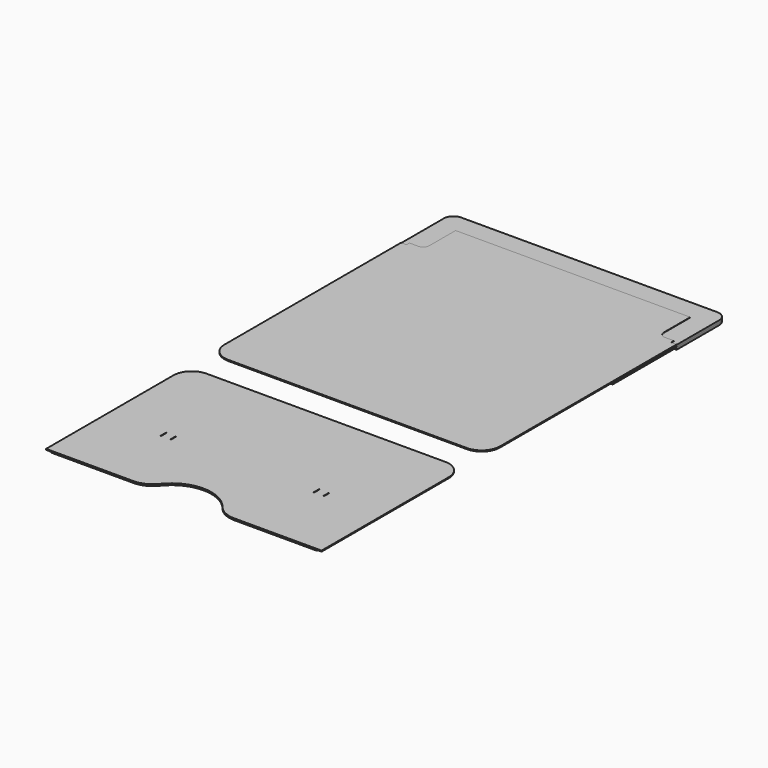
from build123d import *

# Parameters (mm, degrees)
F0_W      = 0.5
F0_H      = 5.5
F1_DEPTH  = 0.8
F2_DEPTH  = 0.9
F3_DEPTH  = 0.9
F4_DEPTH  = 0.6
F6_DEPTH  = 0.6
F8_DEPTH  = 0.9
F9_R      = 2.5
F10_DEPTH = 0.6
F12_DEPTH = 0.6


with BuildPart() as f1:
    # F0 (on Top) → F1 (new body)
    with BuildSketch(Plane.XY):
        with BuildLine():
            Line((-112.5, -206.965), (-41.231056, -206.965))
            ThreePointArc((-41.231056, -206.965), (-32.502341, -204.959708), (-25.523987, -199.345952))
            ThreePointArc((-25.523987, -199.345952), (0, -186.965), (25.523987, -199.345952))
            ThreePointArc((25.523987, -199.345952), (32.502341, -204.959708), (41.231056, -206.965))
            Line((41.231056, -206.965), (112.5, -206.965))
            Line((112.5, -206.965), (112.5, -76.965))
            ThreePointArc((112.5, -76.965), (108.106602, -66.358398), (97.5, -61.965))
            Line((97.5, -61.965), (-97.5, -61.965))
            ThreePointArc((-97.5, -61.965), (-108.106602, -66.358398), (-112.5, -76.965))
            Line((-112.5, -76.965), (-112.5, -206.965))
        make_face()
        with Locations((-66.5, -144.465)):
            Rectangle(F0_W, F0_H, mode=Mode.SUBTRACT)
        with Locations((-58.5, -144.465)):
            Rectangle(F0_W, F0_H, mode=Mode.SUBTRACT)
        with Locations((58.5, -144.465)):
            Rectangle(F0_W, F0_H, mode=Mode.SUBTRACT)
        with Locations((66.5, -144.465)):
            Rectangle(F0_W, F0_H, mode=Mode.SUBTRACT)
    extrude(amount=-F1_DEPTH)


with BuildPart() as f2:
    # F0 (on Top) → F2 (new body)
    with BuildSketch(Plane.XY):
        with BuildLine():
            Line((112.5, 105.235), (112.5, 155.395))
            Line((112.5, 155.395), (108, 155.395))
            Line((108, 155.395), (100.80026, 155.395))
            ThreePointArc((100.80026, 155.395), (95.143406, 157.738146), (92.80026, 163.395))
            Line((92.80026, 163.395), (92.80026, 187.26526))
            Line((92.80026, 187.26526), (-92.80026, 187.26526))
            Line((-92.80026, 187.26526), (-92.80026, 163.395))
            ThreePointArc((-92.80026, 163.395), (-95.143406, 157.738146), (-100.80026, 155.395))
            Line((-100.80026, 155.395), (-108, 155.395))
            Line((-108, 155.395), (-112.5, 155.395))
            Line((-112.5, 155.395), (-112.5, 105.235))
            Line((-112.5, 105.235), (-112.5, -24.765))
            ThreePointArc((-112.5, -24.765), (-108.106602, -35.371602), (-97.5, -39.765))
            Line((-97.5, -39.765), (97.5, -39.765))
            ThreePointArc((97.5, -39.765), (108.106602, -35.371602), (112.5, -24.765))
            Line((112.5, -24.765), (112.5, 105.235))
        make_face()
        with BuildLine():
            Line((100.80026, 155.395), (108, 155.395))
            Line((108, 155.395), (108, 158.395))
            Line((108, 158.395), (100.80026, 158.395))
            ThreePointArc((100.80026, 158.395), (97.264726, 159.859466), (95.80026, 163.395))
            Line((95.80026, 163.395), (95.80026, 190.26526))
            Line((95.80026, 190.26526), (-95.80026, 190.26526))
            Line((-95.80026, 190.26526), (-95.80026, 163.395))
            ThreePointArc((-95.80026, 163.395), (-97.264726, 159.859466), (-100.80026, 158.395))
            Line((-100.80026, 158.395), (-108, 158.395))
            Line((-108, 158.395), (-108, 155.395))
            Line((-108, 155.395), (-100.80026, 155.395))
            ThreePointArc((-100.80026, 155.395), (-95.143406, 157.738146), (-92.80026, 163.395))
            Line((-92.80026, 163.395), (-92.80026, 187.26526))
            Line((-92.80026, 187.26526), (92.80026, 187.26526))
            Line((92.80026, 187.26526), (92.80026, 163.395))
            ThreePointArc((92.80026, 163.395), (95.143406, 157.738146), (100.80026, 155.395))
        make_face()
    extrude(amount=F2_DEPTH)


with BuildPart() as f3:
    # F0 (on Top) → F3 (new body)
    with BuildSketch(Plane.XY):
        with BuildLine():
            ThreePointArc((112.5, 198.965), (110.156854, 204.621854), (104.5, 206.965))
            Line((104.5, 206.965), (-104.5, 206.965))
            ThreePointArc((-104.5, 206.965), (-110.156854, 204.621854), (-112.5, 198.965))
            Line((-112.5, 198.965), (-112.5, 155.395))
            Line((-112.5, 155.395), (-108, 155.395))
            Line((-108, 155.395), (-108, 158.395))
            Line((-108, 158.395), (-100.80026, 158.395))
            ThreePointArc((-100.80026, 158.395), (-97.264726, 159.859466), (-95.80026, 163.395))
            Line((-95.80026, 163.395), (-95.80026, 190.26526))
            Line((-95.80026, 190.26526), (95.80026, 190.26526))
            Line((95.80026, 190.26526), (95.80026, 163.395))
            ThreePointArc((95.80026, 163.395), (97.264726, 159.859466), (100.80026, 158.395))
            Line((100.80026, 158.395), (108, 158.395))
            Line((108, 158.395), (108, 155.395))
            Line((108, 155.395), (112.5, 155.395))
            Line((112.5, 155.395), (112.5, 198.965))
        make_face()
    extrude(amount=-F3_DEPTH)


with BuildPart() as f4:
    # F0 (on Top) → F4 (new body)
    with BuildSketch(Plane.XY):
        with BuildLine():
            Line((100.80026, 155.395), (108, 155.395))
            Line((108, 155.395), (108, 158.395))
            Line((108, 158.395), (100.80026, 158.395))
            ThreePointArc((100.80026, 158.395), (97.264726, 159.859466), (95.80026, 163.395))
            Line((95.80026, 163.395), (95.80026, 190.26526))
            Line((95.80026, 190.26526), (-95.80026, 190.26526))
            Line((-95.80026, 190.26526), (-95.80026, 163.395))
            ThreePointArc((-95.80026, 163.395), (-97.264726, 159.859466), (-100.80026, 158.395))
            Line((-100.80026, 158.395), (-108, 158.395))
            Line((-108, 158.395), (-108, 155.395))
            Line((-108, 155.395), (-100.80026, 155.395))
            ThreePointArc((-100.80026, 155.395), (-95.143406, 157.738146), (-92.80026, 163.395))
            Line((-92.80026, 163.395), (-92.80026, 187.26526))
            Line((-92.80026, 187.26526), (92.80026, 187.26526))
            Line((92.80026, 187.26526), (92.80026, 163.395))
            ThreePointArc((92.80026, 163.395), (95.143406, 157.738146), (100.80026, 155.395))
        make_face()
        with BuildLine():
            ThreePointArc((112.5, 198.965), (110.156854, 204.621854), (104.5, 206.965))
            Line((104.5, 206.965), (-104.5, 206.965))
            ThreePointArc((-104.5, 206.965), (-110.156854, 204.621854), (-112.5, 198.965))
            Line((-112.5, 198.965), (-112.5, 155.395))
            Line((-112.5, 155.395), (-108, 155.395))
            Line((-108, 155.395), (-108, 158.395))
            Line((-108, 158.395), (-100.80026, 158.395))
            ThreePointArc((-100.80026, 158.395), (-97.264726, 159.859466), (-95.80026, 163.395))
            Line((-95.80026, 163.395), (-95.80026, 190.26526))
            Line((-95.80026, 190.26526), (95.80026, 190.26526))
            Line((95.80026, 190.26526), (95.80026, 163.395))
            ThreePointArc((95.80026, 163.395), (97.264726, 159.859466), (100.80026, 158.395))
            Line((100.80026, 158.395), (108, 158.395))
            Line((108, 158.395), (108, 155.395))
            Line((108, 155.395), (112.5, 155.395))
            Line((112.5, 155.395), (112.5, 198.965))
        make_face()
    extrude(amount=F4_DEPTH)


with BuildPart() as f6:
    # F5 (on face) → F6 (new body)
    with BuildSketch(Plane(origin=(0, 0, -0.9), x_dir=(1, 0, 0), z_dir=(0, 0, -1))):
        with BuildLine():
            Line((-112.5, -155.395), (-112.5, -198.965))
            ThreePointArc((-112.5, -198.965), (-110.156854, -204.621854), (-104.5, -206.965))
            Line((-104.5, -206.965), (104.5, -206.965))
            ThreePointArc((104.5, -206.965), (110.156854, -204.621854), (112.5, -198.965))
            Line((112.5, -198.965), (112.5, -155.395))
            Line((112.5, -155.395), (111.75, -155.395))
            ThreePointArc((111.75, -155.395), (110.776502, -152.874377), (108.361446, -151.66246))
            ThreePointArc((108.361446, -151.66246), (108.10384, -151.533189), (108, -151.264322))
            Line((108, -151.264322), (108, -127.535))
            ThreePointArc((108, -127.535), (106.828427, -124.706573), (104, -123.535))
            Line((104, -123.535), (0, -123.535))
            Line((0, -123.535), (-104, -123.535))
            ThreePointArc((-104, -123.535), (-106.828427, -124.706573), (-108, -127.535))
            Line((-108, -127.535), (-108, -151.264322))
            ThreePointArc((-108, -151.264322), (-108.10384, -151.533189), (-108.361446, -151.66246))
            ThreePointArc((-108.361446, -151.66246), (-110.776502, -152.874377), (-111.75, -155.395))
            Line((-111.75, -155.395), (-112.5, -155.395))
        make_face()
    extrude(amount=F6_DEPTH)


with BuildPart() as f8:
    # F7 (on face) → F8 (new body)
    with BuildSketch(Plane(origin=(0, 0, -1.5), x_dir=(1, 0, 0), z_dir=(0, 0, -1))):
        with BuildLine():
            Line((-108, -158.395), (-108, -155.395))
            Line((-108, -155.395), (-112.5, -155.395))
            Line((-112.5, -155.395), (-112.5, -198.965))
            ThreePointArc((-112.5, -198.965), (-110.156854, -204.621854), (-104.5, -206.965))
            Line((-104.5, -206.965), (104.5, -206.965))
            ThreePointArc((104.5, -206.965), (110.156854, -204.621854), (112.5, -198.965))
            Line((112.5, -198.965), (112.5, -155.395))
            Line((112.5, -155.395), (108, -155.395))
            Line((108, -155.395), (108, -158.395))
            Line((108, -158.395), (100.80026, -158.395))
            ThreePointArc((100.80026, -158.395), (97.264726, -159.859466), (95.80026, -163.395))
            Line((95.80026, -163.395), (95.80026, -168.395))
            Line((95.80026, -168.395), (-95.80026, -168.395))
            Line((-95.80026, -168.395), (-95.80026, -163.395))
            ThreePointArc((-95.80026, -163.395), (-97.264726, -159.859466), (-100.80026, -158.395))
            Line((-100.80026, -158.395), (-108, -158.395))
        make_face()
        with BuildLine():
            ThreePointArc((-55.428932, -188.535), (-62.5, -193.535), (-69.571068, -188.535))
            Line((-69.571068, -188.535), (-71.5, -188.535))
            ThreePointArc((-71.5, -188.535), (-74, -186.035), (-71.5, -183.535))
            Line((-71.5, -183.535), (-69.571068, -183.535))
            ThreePointArc((-69.571068, -183.535), (-62.5, -178.535), (-55.428932, -183.535))
            Line((-55.428932, -183.535), (-53.5, -183.535))
            ThreePointArc((-53.5, -183.535), (-51, -186.035), (-53.5, -188.535))
            Line((-53.5, -188.535), (-55.428932, -188.535))
        make_face(mode=Mode.SUBTRACT)
        with BuildLine():
            Line((71.5, -188.535), (69.571068, -188.535))
            ThreePointArc((69.571068, -188.535), (62.5, -193.535), (55.428932, -188.535))
            Line((55.428932, -188.535), (53.5, -188.535))
            ThreePointArc((53.5, -188.535), (51, -186.035), (53.5, -183.535))
            Line((53.5, -183.535), (55.428932, -183.535))
            ThreePointArc((55.428932, -183.535), (62.5, -178.535), (69.571068, -183.535))
            Line((69.571068, -183.535), (71.5, -183.535))
            ThreePointArc((71.5, -183.535), (74, -186.035), (71.5, -188.535))
        make_face(mode=Mode.SUBTRACT)
    extrude(amount=F8_DEPTH)


with BuildPart() as f10:
    # F9 (on face) → F10 (new body)
    with BuildSketch(Plane(origin=(0, 0, -2.4), x_dir=(1, 0, 0), z_dir=(0, 0, -1))):
        with BuildLine():
            Line((-112.5, -155.395), (-112.5, -198.965))
            ThreePointArc((-112.5, -198.965), (-110.156854, -204.621854), (-104.5, -206.965))
            Line((-104.5, -206.965), (104.5, -206.965))
            ThreePointArc((104.5, -206.965), (110.156854, -204.621854), (112.5, -198.965))
            Line((112.5, -198.965), (112.5, -155.395))
            Line((112.5, -155.395), (100.80026, -155.395))
            ThreePointArc((100.80026, -155.395), (95.143406, -157.738146), (92.80026, -163.395))
            Line((92.80026, -163.395), (92.80026, -164.395))
            Line((92.80026, -164.395), (-92.80026, -164.395))
            Line((-92.80026, -164.395), (-92.80026, -163.395))
            ThreePointArc((-92.80026, -163.395), (-95.143406, -157.738146), (-100.80026, -155.395))
            Line((-100.80026, -155.395), (-112.5, -155.395))
        make_face()
        with BuildLine():
            Line((-67.25, -188.785), (-67.25, -183.285))
            ThreePointArc((-67.25, -183.285), (-66.75, -182.785), (-66.25, -183.285))
            Line((-66.25, -183.285), (-66.25, -188.785))
            ThreePointArc((-66.25, -188.785), (-66.75, -189.285), (-67.25, -188.785))
        make_face(mode=Mode.SUBTRACT)
        with Locations((-62.5, -186.035)):
            Circle(F9_R, mode=Mode.SUBTRACT)
        with BuildLine():
            ThreePointArc((-58.75, -183.285), (-58.25, -182.785), (-57.75, -183.285))
            Line((-57.75, -183.285), (-57.75, -188.785))
            ThreePointArc((-57.75, -188.785), (-58.25, -189.285), (-58.75, -188.785))
            Line((-58.75, -188.785), (-58.75, -183.285))
        make_face(mode=Mode.SUBTRACT)
        with BuildLine():
            Line((58.75, -183.285), (58.75, -188.785))
            ThreePointArc((58.75, -188.785), (58.25, -189.285), (57.75, -188.785))
            Line((57.75, -188.785), (57.75, -183.285))
            ThreePointArc((57.75, -183.285), (58.25, -182.785), (58.75, -183.285))
        make_face(mode=Mode.SUBTRACT)
        with Locations((62.5, -186.035)):
            Circle(F9_R, mode=Mode.SUBTRACT)
        with BuildLine():
            ThreePointArc((66.25, -183.285), (66.75, -182.785), (67.25, -183.285))
            Line((67.25, -183.285), (67.25, -188.785))
            ThreePointArc((67.25, -188.785), (66.75, -189.285), (66.25, -188.785))
            Line((66.25, -188.785), (66.25, -183.285))
        make_face(mode=Mode.SUBTRACT)
    extrude(amount=F10_DEPTH)


with BuildPart() as f12:
    # F11 (on face) → F12 (new body)
    with BuildSketch(Plane(origin=(0, 0, -0.8), x_dir=(1, 0, 0), z_dir=(0, 0, -1))):
        with BuildLine():
            Line((108.5, 76.965), (108.5, 206.965))
            Line((108.5, 206.965), (41.231056, 206.965))
            ThreePointArc((41.231056, 206.965), (32.502341, 204.959708), (25.523987, 199.345952))
            ThreePointArc((25.523987, 199.345952), (0, 186.965), (-25.523987, 199.345952))
            ThreePointArc((-25.523987, 199.345952), (-32.502341, 204.959708), (-41.231056, 206.965))
            Line((-41.231056, 206.965), (-108.5, 206.965))
            Line((-108.5, 206.965), (-108.5, 76.965))
            ThreePointArc((-108.5, 76.965), (-105.278175, 69.186825), (-97.5, 65.965))
            Line((-97.5, 65.965), (97.5, 65.965))
            ThreePointArc((97.5, 65.965), (105.278175, 69.186825), (108.5, 76.965))
        make_face()
        with BuildLine():
            Line((108, -155.395), (112.5, -155.395))
            Line((112.5, -155.395), (112.5, -90.235))
            Line((112.5, -90.235), (108.5, -90.235))
            Line((108.5, -90.235), (108.5, 24.765))
            ThreePointArc((108.5, 24.765), (105.278175, 32.543175), (97.5, 35.765))
            Line((97.5, 35.765), (-97.5, 35.765))
            ThreePointArc((-97.5, 35.765), (-105.278175, 32.543175), (-108.5, 24.765))
            Line((-108.5, 24.765), (-108.5, -90.235))
            Line((-108.5, -90.235), (-112.5, -90.235))
            Line((-112.5, -90.235), (-112.5, -155.395))
            Line((-112.5, -155.395), (-108, -155.395))
            Line((-108, -155.395), (-108, -158.395))
            Line((-108, -158.395), (-100.80026, -158.395))
            ThreePointArc((-100.80026, -158.395), (-97.264726, -159.859466), (-95.80026, -163.395))
            Line((-95.80026, -163.395), (-95.80026, -168.965))
            Line((-95.80026, -168.965), (95.80026, -168.965))
            Line((95.80026, -168.965), (95.80026, -163.395))
            ThreePointArc((95.80026, -163.395), (97.264726, -159.859466), (100.80026, -158.395))
            Line((100.80026, -158.395), (108, -158.395))
            Line((108, -158.395), (108, -155.395))
        make_face()
    extrude(amount=F12_DEPTH)


solid = Compound([f1.part, f2.part, f3.part, f4.part, f6.part, f8.part, f10.part, f12.part])
